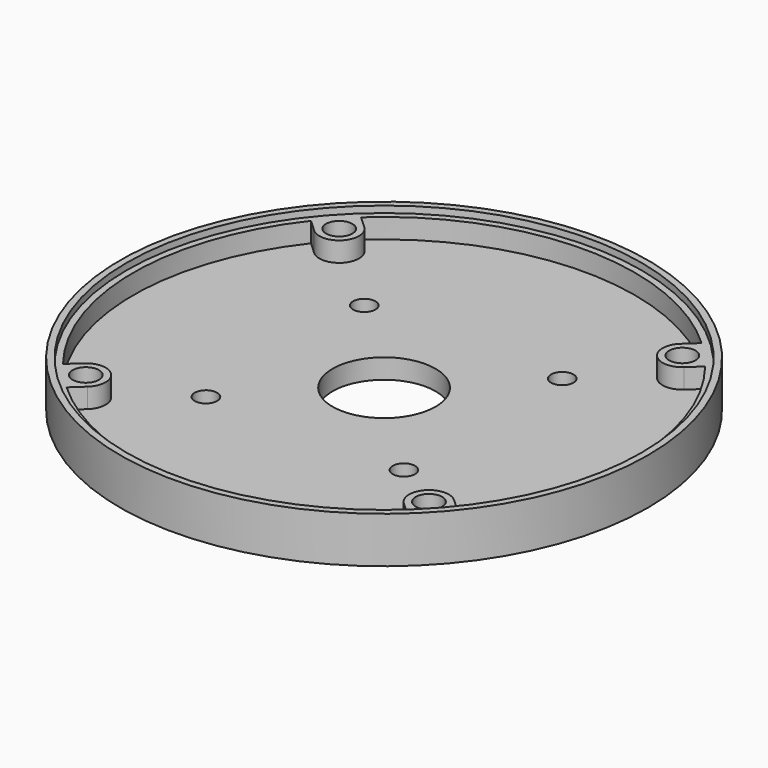
from build123d import *

# Parameters (mm, degrees)
SKETCH_R           = 40
SKETCH_R_2         = 7.8
PAD_DEPTH          = 3
SKETCH001_R        = 1.7
POCKET_DEPTH       = 229.354706
POLARPATTERN_COUNT = 4
SKETCH002_R        = 40
SKETCH002_R_2      = 38
PAD001_DEPTH       = 3
SKETCH003_R        = 40
SKETCH003_R_2      = 39
PAD002_DEPTH       = 1
PAD003_DEPTH       = 3
SKETCH005_R        = 2
POCKET001_DEPTH    = 5


with BuildPart() as part:
    # Sketch → Pad (new body)
    with BuildSketch(Plane.XY):
        Circle(SKETCH_R)
        Circle(SKETCH_R_2, mode=Mode.SUBTRACT)
    extrude(amount=PAD_DEPTH)

    # Sketch001 → Pocket (cut, through all)
    with BuildSketch(Plane.XY.offset(3)):
        with Locations((15, 15)):
            Circle(SKETCH001_R)
    pocket = extrude(amount=-POCKET_DEPTH, mode=Mode.SUBTRACT)

    # PolarPattern: Pocket ×4 about axis
    polarpattern_axis = Axis((0, 0, 3), (0, 0, 1))
    for i in range(1, POLARPATTERN_COUNT):
        add(pocket.rotate(polarpattern_axis, i * 360 / POLARPATTERN_COUNT), mode=Mode.SUBTRACT)

    # Sketch002 → Pad001 (new body)
    with BuildSketch(Plane.XY.offset(3)):
        Circle(SKETCH002_R)
        Circle(SKETCH002_R_2, mode=Mode.SUBTRACT)
    extrude(amount=PAD001_DEPTH)

    # Sketch003 → Pad002 (new body)
    with BuildSketch(Plane.XY.offset(6)):
        Circle(SKETCH003_R)
        Circle(SKETCH003_R_2, mode=Mode.SUBTRACT)
    extrude(amount=PAD002_DEPTH)

    # Sketch004 → Pad003 (new body)
    with BuildSketch(Plane.XY.offset(3)):
        with BuildLine():
            ThreePointArc((23.96516, 26.20441), (23.79559, 21.96516), (28.03484, 21.79559))
            Line((29.957371, 23.570234), (28.03484, 21.79559))
            Line((25.887691, 27.979054), (29.957371, 23.570234))
            Line((23.96516, 26.20441), (25.887691, 27.979054))
        make_face()
        with BuildLine():
            ThreePointArc((28.03484, -21.79559), (23.79559, -21.96516), (23.96516, -26.20441))
            Line((23.96516, -26.20441), (25.887691, -27.979054))
            Line((25.887691, -27.979054), (29.957371, -23.570234))
            Line((29.957371, -23.570234), (28.03484, -21.79559))
        make_face()
    pad003 = extrude(amount=PAD003_DEPTH)

    # Mirrored: Pad003 across Sketch004 V_Axis
    add(pad003.mirror(Plane(origin=(0, 0, 3), x_dir=(0, 0, 1), z_dir=(1, 0, 0))))

    # Sketch005 → Pocket001 (cut)
    with BuildSketch(Plane.XY.offset(6)):
        with Locations((-26, 24)):
            Circle(SKETCH005_R)
        with Locations((-26, -24)):
            Circle(SKETCH005_R)
        with Locations((26, -24)):
            Circle(SKETCH005_R)
        with Locations((26, 24)):
            Circle(SKETCH005_R)
    extrude(amount=-POCKET001_DEPTH, mode=Mode.SUBTRACT)


solid = part.part
